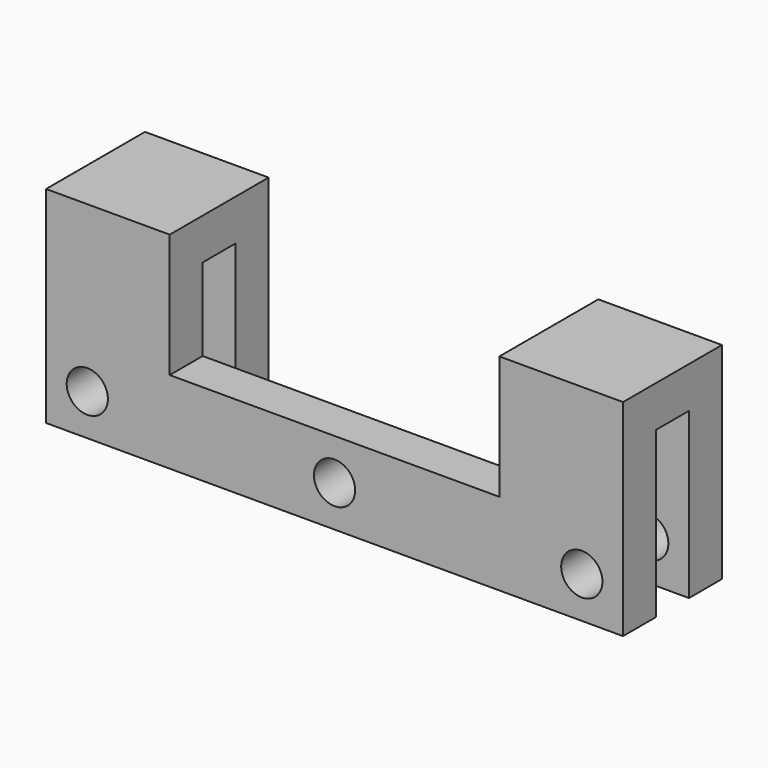
from build123d import *

# Parameters (mm, degrees)
F0_R     = 2
F1_DEPTH = 4
F2_W     = 12
F2_H     = 4
F3_DEPTH = 4
F4_W     = 12
F4_H     = 20
F4_R     = 2
F5_DEPTH = 4


with BuildPart() as f1:
    # F0 (on Front) → F1 (new body)
    with BuildSketch(Plane.XZ):
        Polygon((-28, -4), (28, -4), (28, 4), (28, 16), (16, 16), (16, 4), (-16, 4), (-16, 16), (-28, 16), (-28, 4), align=None)
        with Locations((-24, 0)):
            Circle(F0_R, mode=Mode.SUBTRACT)
        Circle(F0_R, mode=Mode.SUBTRACT)
        with Locations((24, 0)):
            Circle(F0_R, mode=Mode.SUBTRACT)
    extrude(amount=F1_DEPTH)

    # F2 (on face) → F3 (join)
    with BuildSketch(Plane(origin=(0, 0, 0), x_dir=(-1, 0, 0), z_dir=(0, 1, 0))):
        with Locations((-22, 14)):
            Rectangle(F2_W, F2_H)
        with Locations((22, 14)):
            Rectangle(F2_W, F2_H)
    extrude(amount=F3_DEPTH)

    # F4 (on face) → F5 (join)
    with BuildSketch(Plane(origin=(0, 4, 0), x_dir=(-1, 0, 0), z_dir=(0, 1, 0))):
        with Locations((-22, 6)):
            Rectangle(F4_W, F4_H)
        with Locations((-24, 0)):
            Circle(F4_R, mode=Mode.SUBTRACT)
        with Locations((22, 6)):
            Rectangle(F4_W, F4_H)
        with Locations((24, 0)):
            Circle(F4_R, mode=Mode.SUBTRACT)
    extrude(amount=F5_DEPTH)


solid = f1.part
